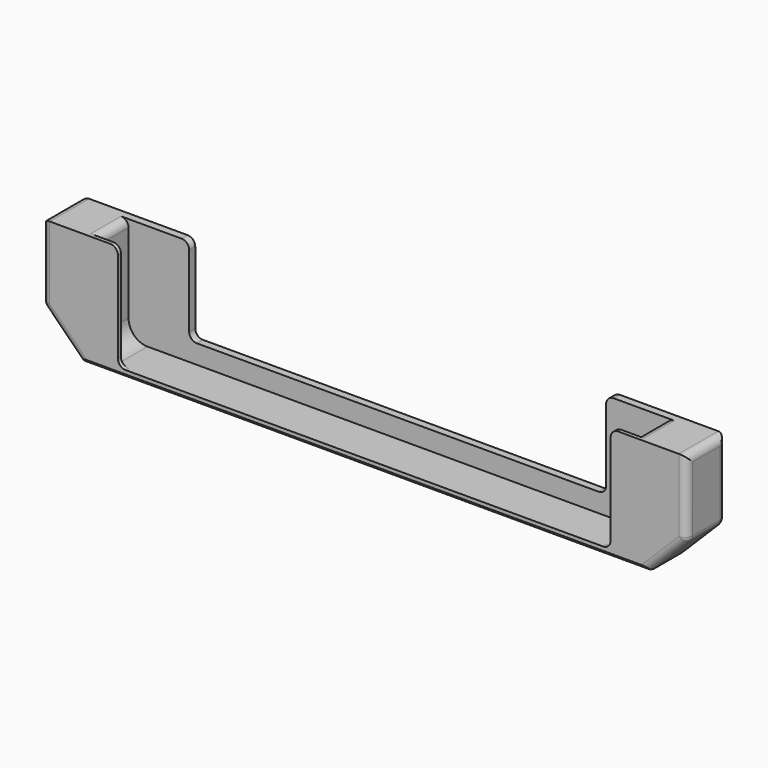
from build123d import *

# Parameters (mm, degrees)
F0_W     = 170
F0_H     = 30
F1_DEPTH = 13
F3_DEPTH = 28
F4_W     = 110
F4_H     = 2
F5_DEPTH = 5
F6_SIZE  = 10
F7_R     = 5
F8_SIZE  = 1
F9_R     = 2


with BuildPart() as f1:
    # F0 (on Front) → F1 (new body)
    with BuildSketch(Plane.XZ):
        with Locations((0, 15)):
            Rectangle(F0_W, F0_H)
    extrude(amount=F1_DEPTH)

    # F2 (on face) → F3 (cut)
    with BuildSketch(Plane.XY.offset(30)):
        Polygon((-55, -2), (-71, -2), (-71, -12), (-65, -12), (-65, -13), (65, -13), (65, -12), (71, -12), (71, -2), (55, -2), (55, 0), (-55, 0), align=None)
    extrude(amount=-F3_DEPTH, mode=Mode.SUBTRACT)

    # F4 (on face) → F5 (join)
    with BuildSketch(Plane.XY.offset(2)):
        with Locations((0, -1)):
            Rectangle(F4_W, F4_H)
    extrude(amount=F5_DEPTH)

    # F6
    f6_edges = [f1.edges().sort_by_distance(p)[0] for p in [
        (85, -6.5, 0),
        (-85, -6.5, 0),
    ]]
    chamfer(f6_edges, length=F6_SIZE)

    # F7
    f7_edges = [f1.edges().sort_by_distance(p)[0] for p in [
        (-71, -7, 2),
        (71, -7, 2),
    ]]
    fillet(f7_edges, radius=F7_R)

    # F8
    f8_edges = [f1.edges().sort_by_distance(p)[0] for p in [
        (0, -13, 0),
        (0, 0, 0),
    ]]
    chamfer(f8_edges, length=F8_SIZE)

    # F9
    f9_edges = [f1.edges().sort_by_distance(p)[0] for p in [
        (-85, -6.5, 10),
        (-85, -6.5, 30),
        (-71, -7, 30),
        (71, -7, 30),
        (85, -6.5, 30),
        (85, -6.5, 10),
        (55, -1, 7),
        (55, -1, 30),
        (65, -12.5, 2),
        (65, -12.5, 30),
        (-55, -1, 30),
        (-55, -1, 7),
        (-65, -12.5, 2),
        (-65, -12.5, 30),
        (85, 0, 20),
        (80.5, 0, 5.5),
        (80.5, -13, 5.5),
        (85, -13, 20),
        (-85, 0, 20),
        (-80.5, 0, 5.5),
        (-85, -13, 20),
        (-80.5, -13, 5.5),
    ]]
    fillet(f9_edges, radius=F9_R)


solid = f1.part
